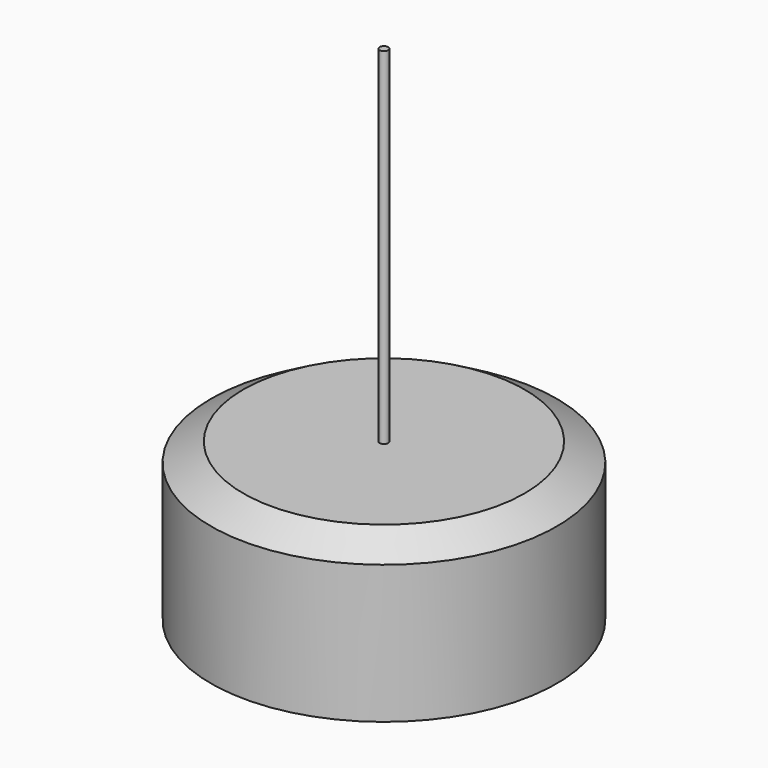
from build123d import *

# Parameters (mm, degrees)
F0_W   = 0.25
F0_H   = 20
F0_H_2 = 3
F0_H_3 = 1.0746234533


with BuildPart() as f1:
    # F0 (on Front) → F1 (revolve)
    with BuildSketch(Plane.XZ):
        with Locations((-20.6763077103, 19.0746234533)):
            Rectangle(F0_W, F0_H)
        Polygon((-20.8013077103, 8), (-30.5513077103, 8), (-30.5513077103, 0), (-20.8013077103, 0), (-20.8013077103, 5), align=None)
        Polygon((-28.6900052902, 9.0746234533), (-30.5513077103, 8), (-20.8013077103, 8), (-20.8013077103, 9.0746234533), align=None)
        with Locations((-20.6763077103, 6.5)):
            Rectangle(F0_W, F0_H_2)
        with Locations((-20.6763077103, 8.5373117267)):
            Rectangle(F0_W, F0_H_3)
    revolve(axis=Axis((-20.5513077103, 0, 19.0746234533), (0, 0, 1)))


solid = f1.part
